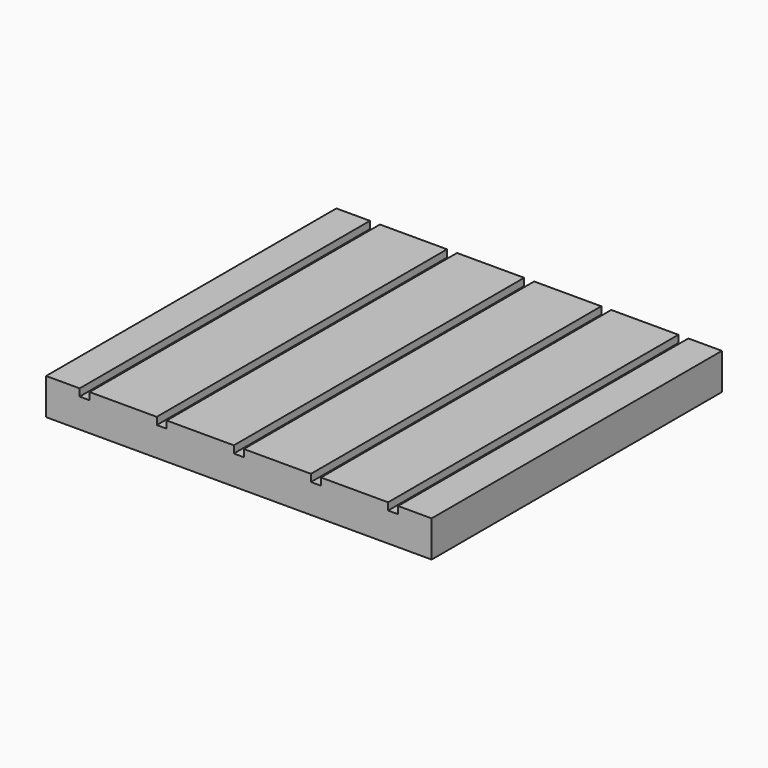
from build123d import *

# Parameters (mm, degrees)
F1_DEPTH = 40


with BuildPart() as f1:
    # F0 (on Front) → F1 (new body)
    with BuildSketch(Plane.XZ):
        Polygon((0, 4), (0, 0), (8.5, 0), (8.5, 4), (4.8, 4), (4.8, 3.2), (3.7, 3.2), (3.7, 4), align=None)
        Polygon((8.5, 4), (8.5, 0), (17, 0), (17, 4), (13.3, 4), (13.3, 3.2), (12.2, 3.2), (12.2, 4), align=None)
        Polygon((17, 4), (17, 0), (25.5, 0), (25.5, 4), (21.8, 4), (21.8, 3.2), (20.7, 3.2), (20.7, 4), align=None)
        Polygon((25.5, 4), (25.5, 0), (34, 0), (34, 4), (30.3, 4), (30.3, 3.2), (29.2, 3.2), (29.2, 4), align=None)
        Polygon((34, 4), (34, 0), (42.5, 0), (42.5, 4), (38.8, 4), (38.8, 3.2), (37.7, 3.2), (37.7, 4), align=None)
    extrude(amount=-F1_DEPTH)


solid = f1.part
